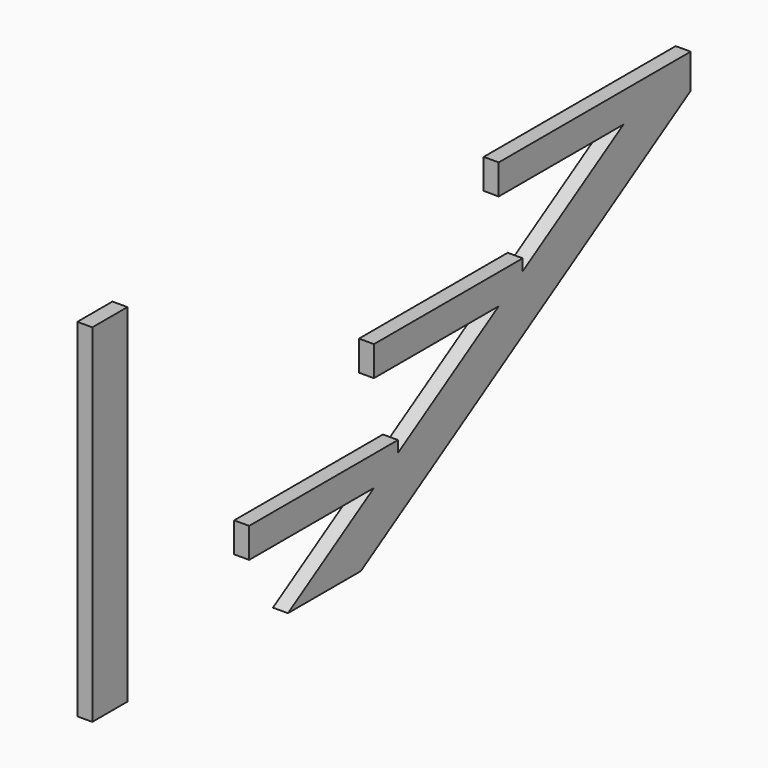
from build123d import *

# Parameters (mm, degrees)
F0_W     = 260
F0_H     = 50
F1_DEPTH = 25
F0_W_2   = 73.221385479
F0_H_2   = 579.0414139628


with BuildPart() as f1:
    # F0 (on Right) → F1 (new body)
    with BuildSketch(Plane.YZ):
        with Locations((130, 25)):
            Rectangle(F0_W, F0_H)
        Polygon((310, 30.9615384615), (260, 0), (310, 0), align=None)
        Polygon((260, 50), (260, 0), (310, 30.9615384615), (310, 50), align=None)
        Polygon((310, 0), (260, 0), (80.7453416149, -111), (232.7016316881, -111), (302.1173746537, -68.0156360867), (562.1173746537, 92.9843639133), (920, 314.5962973008), (920, 322), (780, 322), (570, 191.9615384615), (570, 161), (520, 161), (310, 30.9615384615), align=None)
        with Locations((390, 186)):
            Rectangle(F0_W, F0_H)
        Polygon((570, 191.9615384615), (520, 161), (570, 161), align=None)
        Polygon((520, 211), (520, 161), (570, 191.9615384615), (570, 211), align=None)
        Polygon((520, 322), (780, 322), (920, 322), (920, 372), (520, 372), align=None)
    extrude(amount=F1_DEPTH)


with BuildPart() as f1b:
    # F0 (on Right) → F1, piece 2 (new body)
    with BuildSketch(Plane.YZ):
        with Locations((-290.2494966984, 184.6698261797)):
            Rectangle(F0_W_2, F0_H_2)
    extrude(amount=F1_DEPTH)


solid = Compound([f1.part, f1b.part])
